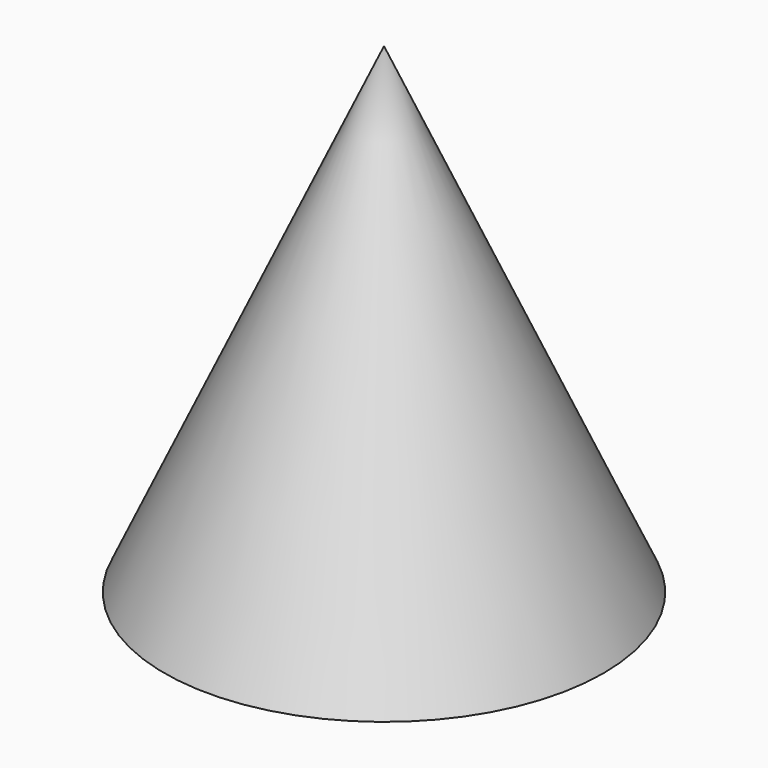
from build123d import *


with BuildPart() as f1:
    # F0 (on Front) → F1 (revolve)
    with BuildSketch(Plane.XZ):
        Polygon((35.123825, -26.323853), (0, 50.535727), (0, -37.633251), (4.771936, -37.633251), (4.771936, -26.323853), align=None)
    revolve(axis=Axis((0, 0, 16.048042), (0, 0, -1)))


with BuildPart() as f2:
    # F0 (on Front) → F2 (revolve)
    with BuildSketch(Plane.XZ):
        Polygon((35.123825, -26.323853), (0, 50.535727), (0, -37.633251), (4.771936, -37.633251), (4.771936, -26.323853), align=None)
    revolve(axis=Axis((0, 0, 16.048042), (0, 0, -1)))


solid = Compound([f1.part, f2.part])
